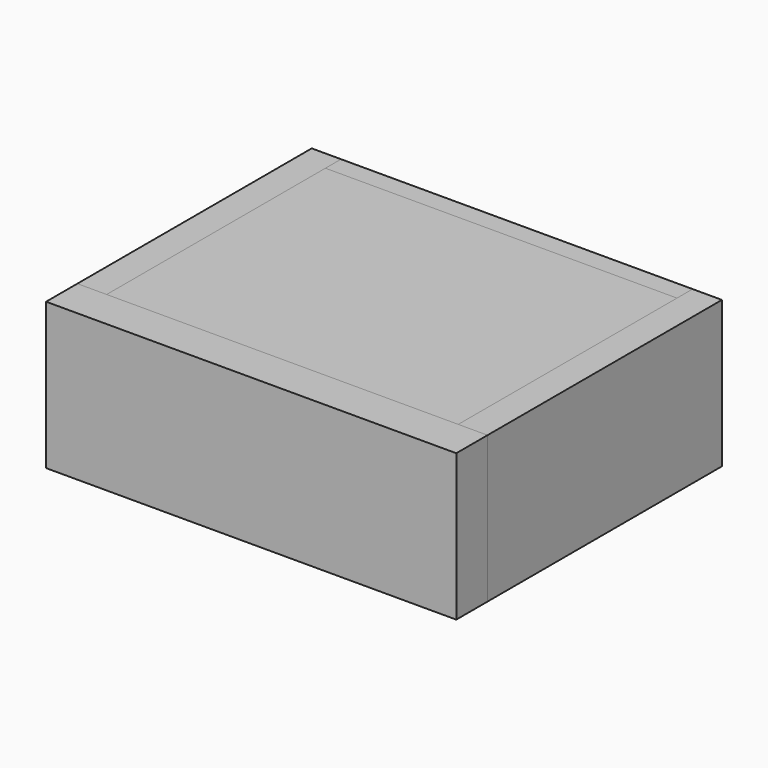
from build123d import *

# Parameters (mm, degrees)
F1_DEPTH = 210
F0_W     = 280
F0_H     = 30
F2_DEPTH = 180
F3_DEPTH = 180
F4_W     = 30
F4_H     = 150
F5_DEPTH = 300
F6_DEPTH = 300
F7_DEPTH = 180


with BuildPart() as f1:
    # F0 (on Right) → F1 (new body, symmetric)
    with BuildSketch(Plane.YZ):
        Polygon((40, 0), (0, 0), (0, -150), (40, -150), (40, -120), (40, -30), align=None)
    extrude(amount=F1_DEPTH, both=True)


with BuildPart() as f2:
    # F0 (on Right) → F2 (new body, symmetric)
    with BuildSketch(Plane.YZ):
        with Locations((180, -15)):
            Rectangle(F0_W, F0_H)
    extrude(amount=F2_DEPTH, both=True)


with BuildPart() as f3:
    # F0 (on Right) → F3 (new body, symmetric)
    with BuildSketch(Plane.YZ):
        with Locations((180, -135)):
            Rectangle(F0_W, F0_H)
    extrude(amount=F3_DEPTH, both=True)


with BuildPart() as f5:
    # F4 (on face) → F5 (new body)
    with BuildSketch(Plane(origin=(0, 40, 0), x_dir=(-1, 0, 0), z_dir=(0, 1, 0))):
        with Locations((-195, -75)):
            Rectangle(F4_W, F4_H)
    extrude(amount=F5_DEPTH)


with BuildPart() as f6:
    # F4 (on face) → F6 (new body)
    with BuildSketch(Plane(origin=(0, 40, 0), x_dir=(-1, 0, 0), z_dir=(0, 1, 0))):
        with Locations((195, -75)):
            Rectangle(F4_W, F4_H)
    extrude(amount=F6_DEPTH)


with BuildPart() as f7:
    # F0 (on Right) → F7 (new body, symmetric)
    with BuildSketch(Plane.YZ):
        Polygon((340, 0), (320, 0), (320, -30), (320, -120), (320, -150), (340, -150), align=None)
    extrude(amount=F7_DEPTH, both=True)


solid = Compound([f1.part, f2.part, f3.part, f5.part, f6.part, f7.part])
